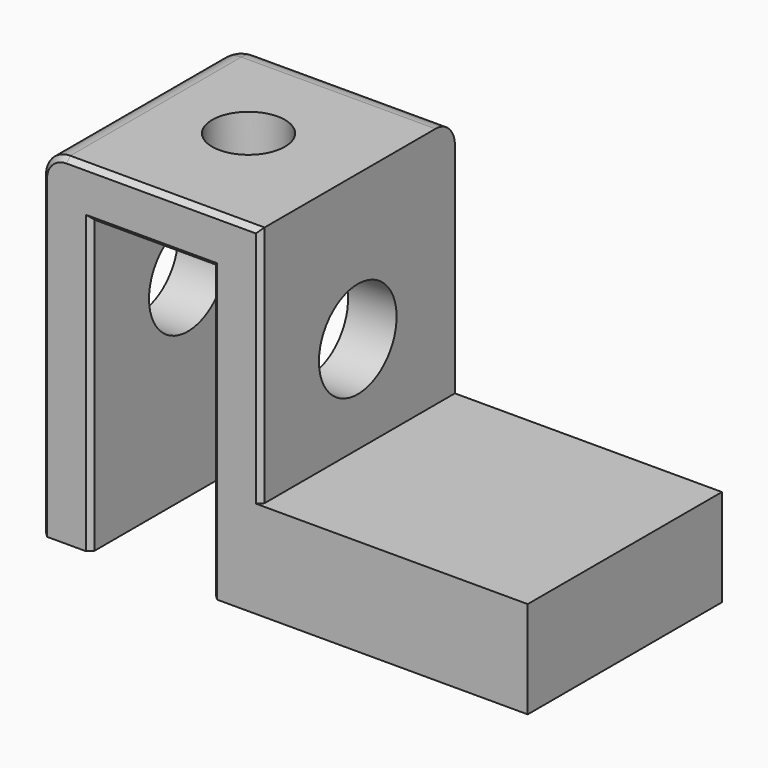
from build123d import *

# Parameters (mm, degrees)
F0_W     = 100
F0_H     = 50
F1_DEPTH = 20
F2_W     = 45
F2_H     = 50
F3_DEPTH = 50
F4_W     = 25
F4_H     = 60
F5_DEPTH = 50
F6_R     = 10
F7_DEPTH = 45
F8_R     = 7.5
F9_DEPTH = 10
F10_R    = 5
F11_SIZE = 1


with BuildPart() as f1:
    # F0 (on Top) → F1 (new body)
    with BuildSketch(Plane.XY):
        with Locations((50, 25)):
            Rectangle(F0_W, F0_H)
    extrude(amount=F1_DEPTH)

    # F2 (on face) → F3 (join)
    with BuildSketch(Plane.XY.offset(20)):
        with Locations((22.5, 25)):
            Rectangle(F2_W, F2_H)
    extrude(amount=F3_DEPTH)

    # F4 (on face) → F5 (cut, through all)
    with BuildSketch(Plane.XZ):
        with Locations((22.5, 30)):
            Rectangle(F4_W, F4_H)
    extrude(amount=-F5_DEPTH, mode=Mode.SUBTRACT)

    # F6 (on face) → F7 (cut, through all)
    with BuildSketch(Plane(origin=(0, 0, 0), x_dir=(0, -1, 0), z_dir=(-1, 0, 0))):
        with Locations((-25, 40)):
            Circle(F6_R)
    extrude(amount=-F7_DEPTH, mode=Mode.SUBTRACT)

    # F8 (on face) → F9 (cut, through all)
    with BuildSketch(Plane.XY.offset(70)):
        with Locations((22.5, 25)):
            Circle(F8_R)
    extrude(amount=-F9_DEPTH, mode=Mode.SUBTRACT)

    # F10
    f10_edges = [f1.edges().sort_by_distance(p)[0] for p in [
        (0, 25, 70),
        (0, 50, 35),
        (22.5, 50, 70),
    ]]
    fillet(f10_edges, radius=F10_R)

    # F11
    f11_edges = [f1.edges().sort_by_distance(p)[0] for p in [
        (0, 0, 32.5),
        (25, 0, 70),
        (45, 0, 45),
        (35, 0, 30),
        (22.5, 0, 60),
        (10, 0, 30),
    ]]
    chamfer(f11_edges, length=F11_SIZE)


solid = f1.part
